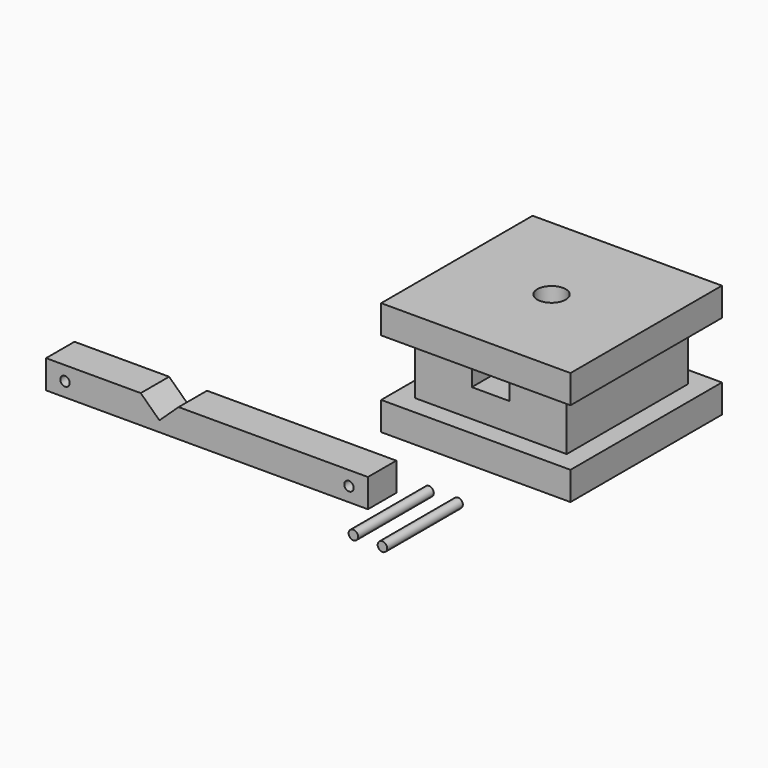
from build123d import *

# Parameters (mm, degrees)
F0_W          = 101.6
F0_H          = 38.1
F1_DEPTH      = 101.6
F2_DEPTH      = 114.3
F2_DEPTH_BACK = 12.7
F3_W          = 25.4
F3_H          = 19.05
F4_DEPTH      = 127
F6_D          = 19.05
F6_DEPTH      = 19.05
F6_TIP        = 5.7231973962
F8_DEPTH      = 23.8125
F10_D         = 6.35
F11_R         = 3.175
F12_DEPTH     = 63.5


with BuildPart() as f1:
    # F0 (on Front) → F1 (new body)
    with BuildSketch(Plane.XZ):
        with Locations((63.5, 38.1)):
            Rectangle(F0_W, F0_H)
    extrude(amount=-F1_DEPTH)

    # F0 (on Front) → F2 (join, two sides)
    with BuildSketch(Plane.XZ) as f2_sk:
        Polygon((0, 57.15), (12.7, 57.15), (114.3, 57.15), (127, 57.15), (127, 76.2), (0, 76.2), align=None)
        Polygon((0, 19.05), (0, 0), (127, 0), (127, 19.05), (114.3, 19.05), (12.7, 19.05), align=None)
    extrude(amount=-F2_DEPTH)
    extrude(f2_sk.sketch, amount=F2_DEPTH_BACK)

    # F3 (on Front) → F4 (cut)
    with BuildSketch(Plane.XZ):
        with Locations((63.3397639349, 47.4175076246)):
            Rectangle(F3_W, F3_H)
    extrude(amount=-F4_DEPTH, mode=Mode.SUBTRACT)

    # F6
    with Locations(Plane.XY.offset(76.2)):
        with Locations((63.5, 50.8)):
            Hole(F6_D / 2, depth=F6_DEPTH)
            with Locations((0, 0, -(F6_DEPTH + F6_TIP / 2))):  # 118° drill point
                Cone(0, F6_D / 2, F6_TIP, mode=Mode.SUBTRACT)


with BuildPart() as f8:
    # F7 (on Front) → F8 (new body)
    with BuildSketch(Plane.XZ):
        Polygon((0, -41.0213880241), (0, -21.9713880241), (-127, -21.9713880241), (-139.8774683475, -33.989675343), (-152.4, -21.9713880241), (-215.9, -21.9713880241), (-215.9, -41.0213880241), align=None)
    extrude(amount=F8_DEPTH)

    # F10 (through all)
    with Locations(Plane.XZ.offset(23.8125)):
        with Locations((-203.2, -31.4963880241), (-12.7, -31.4963880241)):
            Hole(F10_D / 2)


with BuildPart() as f12:
    # F11 (on Front) → F12 (new body)
    with BuildSketch(Plane.XZ):
        with Locations((21.9662263989, -32.935321331)):
            Circle(F11_R)
    extrude(amount=F12_DEPTH)


with BuildPart() as f12b:
    # F11 (on Front) → F12, piece 2 (new body)
    with BuildSketch(Plane.XZ):
        with Locations((41.4718203247, -33.462498337)):
            Circle(F11_R)
    extrude(amount=F12_DEPTH)


solid = Compound([f1.part, f8.part, f12.part, f12b.part])
